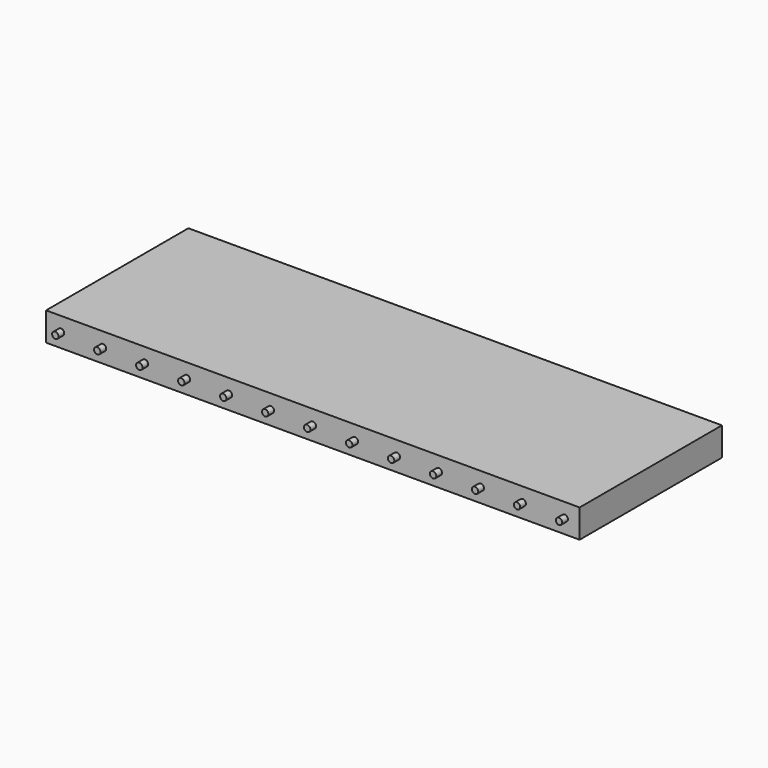
from build123d import *

# Parameters (mm, degrees)
F0_W     = 75
F0_H     = 25
F1_DEPTH = 2
F2_R     = 0.45
F3_DEPTH = 13.5


with BuildPart() as f1:
    # F0 (on Top) → F1 (new body, symmetric)
    with BuildSketch(Plane.XY):
        Rectangle(F0_W, F0_H)
    extrude(amount=F1_DEPTH, both=True)

    # F2 (on Front) → F3 (join, symmetric)
    with BuildSketch(Plane.XZ):
        Circle(F2_R)
        with Locations((-5.9, 0)):
            Circle(F2_R)
        with Locations((-11.8, 0)):
            Circle(F2_R)
        with Locations((-17.7, 0)):
            Circle(F2_R)
        with Locations((-23.6, 0)):
            Circle(F2_R)
        with Locations((-29.5, 0)):
            Circle(F2_R)
        with Locations((-35.4, 0)):
            Circle(F2_R)
        with Locations((5.9, 0)):
            Circle(F2_R)
        with Locations((11.8, 0)):
            Circle(F2_R)
        with Locations((17.7, 0)):
            Circle(F2_R)
        with Locations((23.6, 0)):
            Circle(F2_R)
        with Locations((29.5, 0)):
            Circle(F2_R)
        with Locations((35.4, 0)):
            Circle(F2_R)
    extrude(amount=F3_DEPTH, both=True)


solid = f1.part
